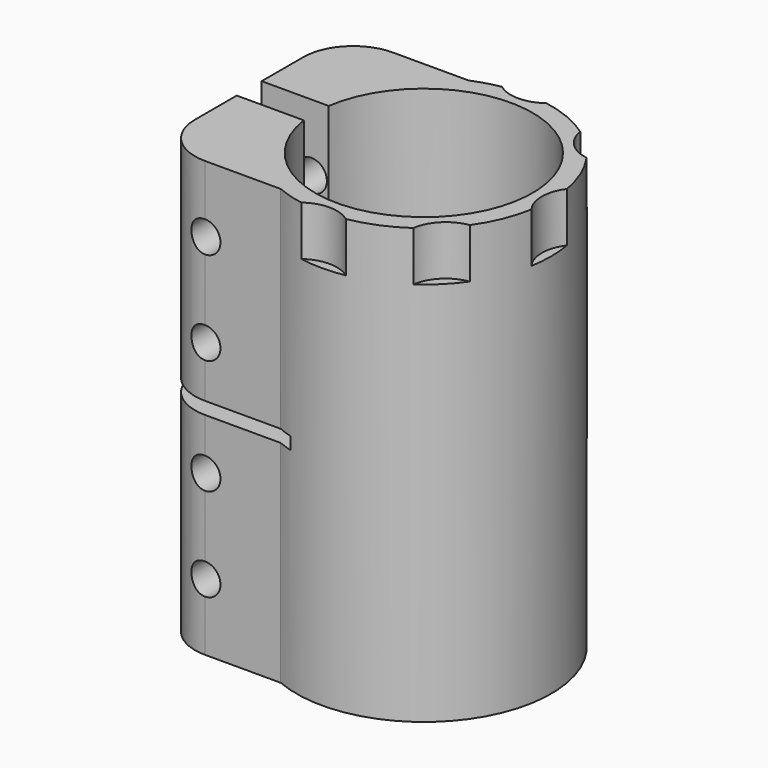
from build123d import *

# Parameters (mm, degrees)
F1_DEPTH       = 35
F3_D           = 5
F3_START       = 1.7550021
F3_CBORE_D     = 10
F3_CBORE_DEPTH = 8
F4_W           = 22.4
F4_H           = 2
F5_DEPTH       = 25
F6_R           = 6
F7_DEPTH       = 8


with BuildPart() as f1:
    # F0 (on Top) → F1 (new body, symmetric)
    with BuildSketch(Plane.XY):
        with BuildLine():
            Line((-20.1192642082, -18.9086026559), (-7.9192642082, -18.9086026559))
            ThreePointArc((-7.9192642082, -18.9086026559), (20.5, 0), (-7.9192642082, 18.9086026559))
            Line((-7.9192642082, 18.9086026559), (-20.1192642082, 18.9086026559))
            ThreePointArc((-20.1192642082, 18.9086026559), (-25.7761184577, 16.5654569054), (-28.1192642082, 10.9086026559))
            Line((-28.1192642082, 10.9086026559), (-28.1192642082, 2.5086026559))
            Line((-28.1192642082, 2.5086026559), (-17.3192642082, 2.5086026559))
            ThreePointArc((-17.3192642082, 2.5086026559), (17.5, 0), (-17.3192642082, -2.5086026559))
            Line((-17.3192642082, -2.5086026559), (-28.1192642082, -2.5086026559))
            Line((-28.1192642082, -2.5086026559), (-28.1192642082, -10.9086026559))
            ThreePointArc((-28.1192642082, -10.9086026559), (-25.7761184577, -16.5654569054), (-20.1192642082, -18.9086026559))
        make_face()
    extrude(amount=F1_DEPTH, both=True)

    # F3 (through all)
    # its depths count from where the whole tool has entered the part; down to there all is cleared
    with Locations(Plane(origin=(0, 18.9086026559, 0), x_dir=(-1, 0, 0), z_dir=(0, 1, 0)).offset(-F3_START)):
        with Locations((20.1192642082, 24.25), (20.1192642082, 9.25), (20.1192642082, -9.25), (20.1192642082, -24.25)):
            CounterBoreHole(F3_D / 2, F3_CBORE_D / 2, F3_CBORE_DEPTH)

    # F4 (on Front) → F5 (cut, symmetric)
    with BuildSketch(Plane.XZ):
        with Locations((-16.9192642082, 0)):
            Rectangle(F4_W, F4_H)
    extrude(amount=F5_DEPTH, both=True, mode=Mode.SUBTRACT)

    # F6 (on face) → F7 (cut)
    with BuildSketch(Plane.XY.offset(35)):
        with Locations((0, -25)):
            Circle(F6_R)
        with Locations((17.6776695297, -17.6776695297)):
            Circle(F6_R)
        with Locations((25, 0)):
            Circle(F6_R)
        with Locations((17.6776695297, 17.6776695297)):
            Circle(F6_R)
        with Locations((0, 25)):
            Circle(F6_R)
    extrude(amount=-F7_DEPTH, mode=Mode.SUBTRACT)


solid = f1.part
